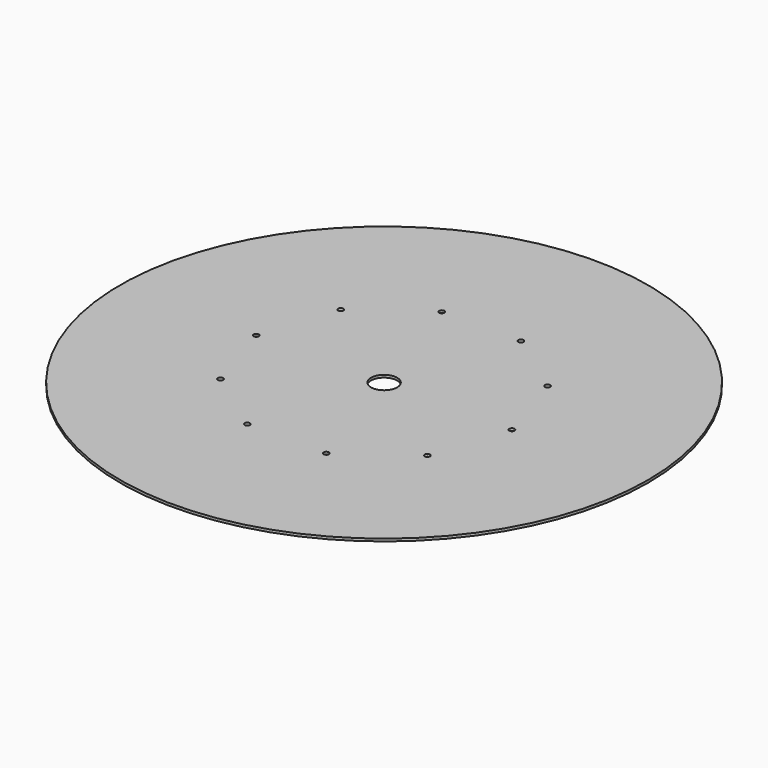
from build123d import *

# Parameters (mm, degrees)
F0_R     = 524.5
F0_R_2   = 5.25
F0_R_3   = 26
F1_DEPTH = 5


with BuildPart() as f1:
    # F0 (on Top) → F1 (new body)
    with BuildSketch(Plane.XY):
        Circle(F0_R)
        with Locations((-205.490317, -149.297454)):
            Circle(F0_R_2, mode=Mode.SUBTRACT)
        with Locations((-78.490317, -241.568355)):
            Circle(F0_R_2, mode=Mode.SUBTRACT)
        with Locations((78.490317, -241.568355)):
            Circle(F0_R_2, mode=Mode.SUBTRACT)
        with Locations((205.490317, -149.297454)):
            Circle(F0_R_2, mode=Mode.SUBTRACT)
        with Locations((-254, 0)):
            Circle(F0_R_2, mode=Mode.SUBTRACT)
        with Locations((-205.490317, 149.297454)):
            Circle(F0_R_2, mode=Mode.SUBTRACT)
        with Locations((-78.490317, 241.568355)):
            Circle(F0_R_2, mode=Mode.SUBTRACT)
        Circle(F0_R_3, mode=Mode.SUBTRACT)
        with Locations((254, 0)):
            Circle(F0_R_2, mode=Mode.SUBTRACT)
        with Locations((78.490317, 241.568355)):
            Circle(F0_R_2, mode=Mode.SUBTRACT)
        with Locations((205.490317, 149.297454)):
            Circle(F0_R_2, mode=Mode.SUBTRACT)
    extrude(amount=F1_DEPTH)


solid = f1.part
